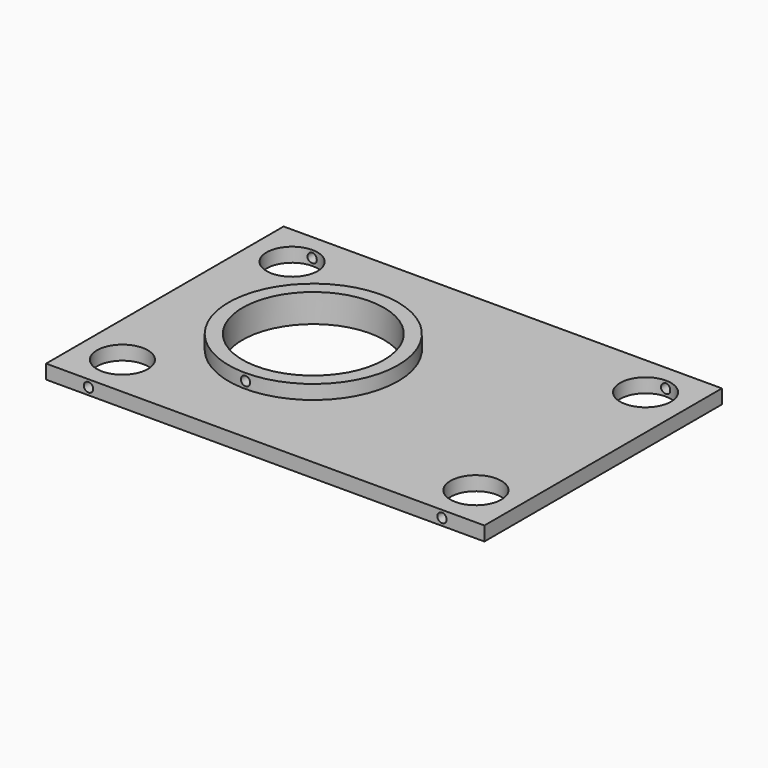
from build123d import *

# Parameters (mm, degrees)
CYLINDER013_R     = 1.65
CYLINDER013_DEPTH = 10
CYLINDER012_R     = 25
CYLINDER012_DEPTH = 10
CYLINDER004_R     = 1.65
CYLINDER004_DEPTH = 10
CYLINDER005_R     = 1.65
CYLINDER005_DEPTH = 10
CYLINDER006_R     = 1.65
CYLINDER006_DEPTH = 10
CYLINDER007_R     = 1.65
CYLINDER007_DEPTH = 10
CYLINDER001_R     = 9
CYLINDER001_DEPTH = 100
CYLINDER002_R     = 9
CYLINDER002_DEPTH = 100
CYLINDER003_R     = 9
CYLINDER003_DEPTH = 100
CYLINDER_R        = 9
CYLINDER_DEPTH    = 100
BOX_W             = 155
BOX_H             = 105
BOX_DEPTH         = 5
CYLINDER009_R     = 25
CYLINDER009_DEPTH = 10
CYLINDER008_R     = 30
CYLINDER008_DEPTH = 5


with BuildPart() as zylinder013:
    # Cylinder013 → Cylinder013 (new body)
    with BuildSketch(Plane(origin=(47.5, 25, 7.5), x_dir=(1, 0, 0), z_dir=(0, -1, 0))):
        Circle(CYLINDER013_R)
    extrude(amount=CYLINDER013_DEPTH)


with BuildPart() as zylinder012:
    # Cylinder012 → Cylinder012 (new body)
    with BuildSketch(Plane(origin=(47.5, 47.5, 0), x_dir=(1, 0, 0), z_dir=(0, 0, 1))):
        Circle(CYLINDER012_R)
    extrude(amount=CYLINDER012_DEPTH)


with BuildPart() as zylinder004:
    # Cylinder004 → Cylinder004 (new body)
    with BuildSketch(Plane(origin=(10, 5, 2.5), x_dir=(1, 0, 0), z_dir=(0, -1, 0))):
        Circle(CYLINDER004_R)
    extrude(amount=CYLINDER004_DEPTH)


with BuildPart() as zylinder005:
    # Cylinder005 → Cylinder005 (new body)
    with BuildSketch(Plane(origin=(10, 100, 2.5), x_dir=(1, 0, 0), z_dir=(0, -1, 0))):
        Circle(CYLINDER005_R)
    extrude(amount=CYLINDER005_DEPTH)


with BuildPart() as zylinder006:
    # Cylinder006 → Cylinder006 (new body)
    with BuildSketch(Plane(origin=(135, 5, 2.5), x_dir=(1, 0, 0), z_dir=(0, -1, 0))):
        Circle(CYLINDER006_R)
    extrude(amount=CYLINDER006_DEPTH)


with BuildPart() as compound001:
    # Cylinder007 → Cylinder007 (new body)
    with BuildSketch(Plane(origin=(135, 100, 2.5), x_dir=(1, 0, 0), z_dir=(0, -1, 0))):
        Circle(CYLINDER007_R)
    extrude(amount=CYLINDER007_DEPTH)

    # Compound001: union Zylinder004, Zylinder005, Zylinder006
    add(zylinder004.part)
    add(zylinder005.part)
    add(zylinder006.part)


with BuildPart() as zylinder001:
    # Cylinder001 → Cylinder001 (new body)
    with BuildSketch(Plane(origin=(135, 85, -10), x_dir=(1, 0, 0), z_dir=(0, 0, 1))):
        Circle(CYLINDER001_R)
    extrude(amount=CYLINDER001_DEPTH)


with BuildPart() as zylinder002:
    # Cylinder002 → Cylinder002 (new body)
    with BuildSketch(Plane(origin=(10, 85, -10), x_dir=(1, 0, 0), z_dir=(0, 0, 1))):
        Circle(CYLINDER002_R)
    extrude(amount=CYLINDER002_DEPTH)


with BuildPart() as zylinder003:
    # Cylinder003 → Cylinder003 (new body)
    with BuildSketch(Plane(origin=(135, 10, -10), x_dir=(1, 0, 0), z_dir=(0, 0, 1))):
        Circle(CYLINDER003_R)
    extrude(amount=CYLINDER003_DEPTH)


with BuildPart() as posts1:
    # Cylinder → Cylinder (new body)
    with BuildSketch(Plane(origin=(10, 10, -10), x_dir=(1, 0, 0), z_dir=(0, 0, 1))):
        Circle(CYLINDER_R)
    extrude(amount=CYLINDER_DEPTH)

    # Compound: union Zylinder001, Zylinder002, Zylinder003
    add(zylinder001.part)
    add(zylinder002.part)
    add(zylinder003.part)


with BuildPart() as cut004:
    # Box → Box (new body)
    with BuildSketch(Plane(origin=(-5, -5, 0), x_dir=(1, 0, 0), z_dir=(0, 0, 1))):
        with Locations((77.5, 52.5)):
            Rectangle(BOX_W, BOX_H)
    extrude(amount=BOX_DEPTH)

    # Cut: cut Posts1
    add(posts1.part, mode=Mode.SUBTRACT)

    # Cut001: cut Compound001
    add(compound001.part, mode=Mode.SUBTRACT)

    # Cut004: cut Zylinder012
    add(zylinder012.part, mode=Mode.SUBTRACT)


with BuildPart() as zylinder009:
    # Cylinder009 → Cylinder009 (new body)
    with BuildSketch(Plane(origin=(47.5, 47.5, 0), x_dir=(1, 0, 0), z_dir=(0, 0, 1))):
        Circle(CYLINDER009_R)
    extrude(amount=CYLINDER009_DEPTH)


with BuildPart() as plate:
    # Cylinder008 → Cylinder008 (new body)
    with BuildSketch(Plane(origin=(47.5, 47.5, 5), x_dir=(1, 0, 0), z_dir=(0, 0, 1))):
        Circle(CYLINDER008_R)
    extrude(amount=CYLINDER008_DEPTH)

    # Cut002: cut Zylinder009
    add(zylinder009.part, mode=Mode.SUBTRACT)

    # Fusion: union Cut004
    add(cut004.part)

    # Cut005: cut Zylinder013
    add(zylinder013.part, mode=Mode.SUBTRACT)


solid = plate.part
